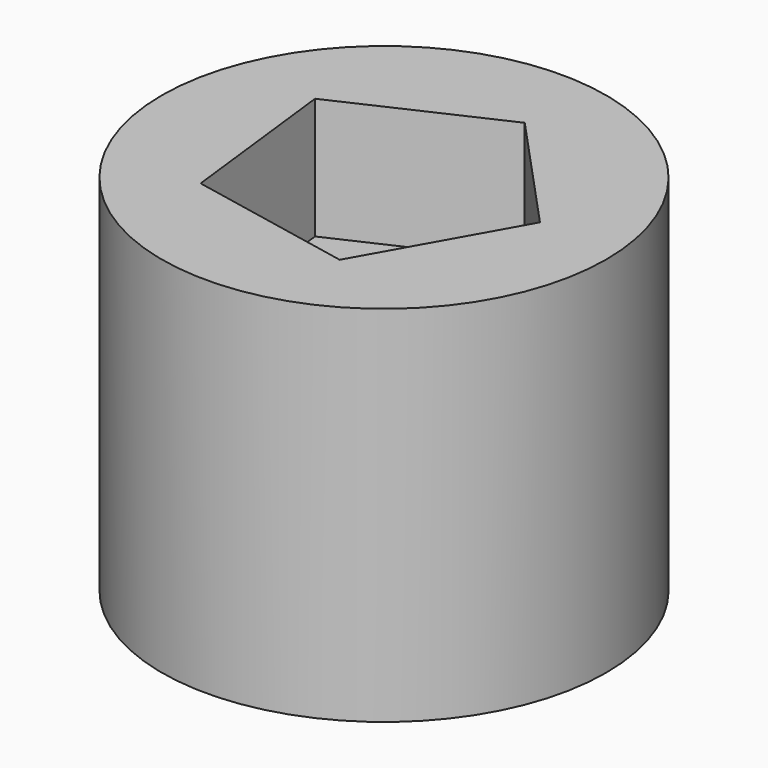
from build123d import *

# Parameters (mm, degrees)
F0_R          = 46.5572685797
F1_DEPTH      = 25.4
F2_R          = 46.5572685797
F3_DEPTH      = 25.4
F3_DEPTH_BACK = 25.4
F4_R          = 46.5572685797
F5_DEPTH      = 25.4
F8_DEPTH      = 25.4
F9_DEPTH      = 25.4


with BuildPart() as f1:
    # F0 (on Top) → F1 (new body)
    with BuildSketch(Plane.XY):
        Circle(F0_R)
    extrude(amount=F1_DEPTH)

    # F2 (on face) → F3 (join, two sides)
    with BuildSketch(Plane.XY.offset(25.4)) as f3_sk:
        Circle(F2_R)
    extrude(amount=F3_DEPTH)
    extrude(f3_sk.sketch, amount=-F3_DEPTH_BACK)

    # F4 (on face) → F5 (join)
    with BuildSketch(Plane.XY.offset(50.8)):
        Circle(F4_R)
    extrude(amount=F5_DEPTH)

    # F6 (on face) → F8 (cut)
    with BuildSketch(Plane.XY.offset(76.2)):
        Polygon((12.566284557, -27.3198056045), (29.8658746284, 3.5089625988), (5.8918410671, 29.4884637558), (-26.2245165926, 14.7159102784), (-22.0994836598, -20.3935310284), align=None)
    extrude(amount=-F8_DEPTH, mode=Mode.SUBTRACT)

    # F7 (on face) → F9 (cut)
    with BuildSketch(Plane.XY):
        Polygon((-22.0994836598, -20.3935310284), (12.566284557, -27.3198056045), (29.8658746284, 3.5089625988), (5.8918410671, 29.4884637558), (-26.2245165926, 14.7159102784), align=None)
    extrude(amount=-F9_DEPTH, mode=Mode.SUBTRACT)


solid = f1.part
